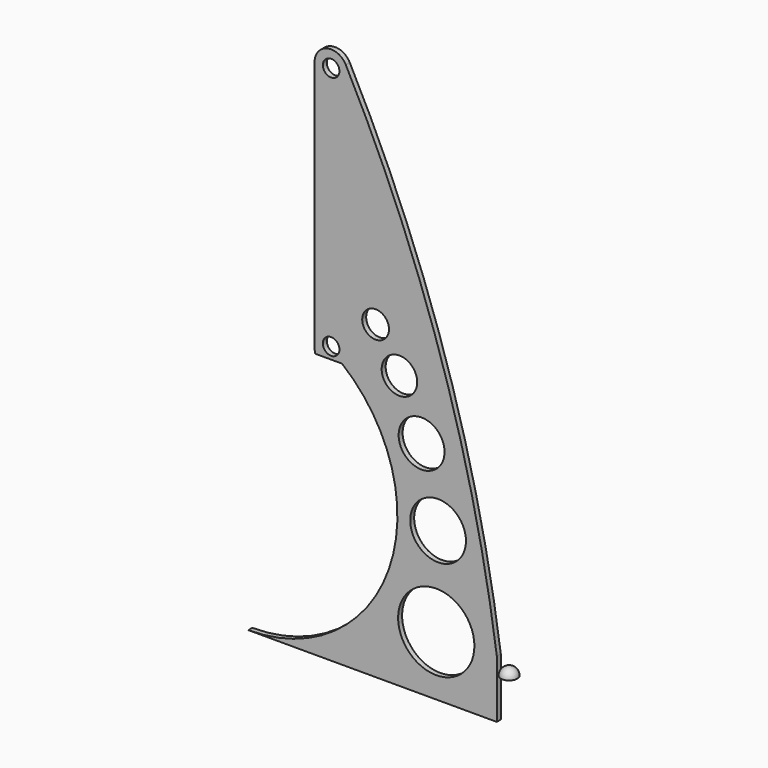
from build123d import *

# Parameters (mm, degrees)
F0_W     = 150
F0_H     = 25
F0_H_2   = 10
F0_R     = 5
F1_DEPTH = 3
F3_DEPTH = 25
F5_DEPTH = 25
F8_R     = 10.7211625117
F8_R_2   = 13.8464579222
F8_R_3   = 8.0798767628
F8_R_4   = 16.8242578826
F8_R_5   = 23.016028867
F9_DEPTH = 25


with BuildPart() as f1:
    # F0 (on Front) → F1 (new body)
    with BuildSketch(Plane.XZ):
        with BuildLine():
            Line((-150, 10), (0, 10))
            ThreePointArc((0, 10), (-33.2661460942, 156.2032895521), (-91.1419153466, 294.5233303461))
            ThreePointArc((-91.1419153466, 294.5233303461), (-90.2896743995, 292.2722920615), (-90, 289.88282))
            ThreePointArc((-90, 289.88282), (-100, 279.88282), (-110, 289.88282))
            Line((-110, 289.88282), (-110, 142))
            ThreePointArc((-110, 142), (-107.4839490045, 110.5993630638), (-100, 80))
            ThreePointArc((-100, 80), (-107.2195262824, 32.2996616303), (-150, 10))
        make_face()
        with BuildLine():
            ThreePointArc((-90, 142), (-100, 132), (-110, 142))
            ThreePointArc((-110, 142), (-100, 152), (-90, 142))
        make_face(mode=Mode.SUBTRACT)
        with Locations((-75, -12.5)):
            Rectangle(F0_W, F0_H)
        with Locations((-75, 5)):
            Rectangle(F0_W, F0_H_2)
        with BuildLine():
            ThreePointArc((-90, 142), (-100, 152), (-110, 142))
            ThreePointArc((-110, 142), (-100, 132), (-90, 142))
        make_face()
        with Locations((-100, 142)):
            Circle(F0_R, mode=Mode.SUBTRACT)
        with BuildLine():
            ThreePointArc((-90, 289.88282), (-90.2896743995, 292.2722920615), (-91.1419153466, 294.5233303461))
            ThreePointArc((-91.1419153466, 294.5233303461), (-102.3894720615, 299.5931456005), (-110, 289.88282))
            ThreePointArc((-110, 289.88282), (-100, 279.88282), (-90, 289.88282))
        make_face()
        with Locations((-100, 289.88282)):
            Circle(F0_R, mode=Mode.SUBTRACT)
    extrude(amount=F1_DEPTH)

    # F2 (on face) → F3 (cut)
    with BuildSketch(Plane.XZ.offset(3)):
        with BuildLine():
            ThreePointArc((-79.2831779252, 52.1890875227), (-102.1084716389, 94.5407460068), (-110, 142))
            ThreePointArc((-110, 142), (-107.4839490045, 110.5993630638), (-100, 80))
            ThreePointArc((-100, 80), (-107.2195262824, 32.2996616303), (-150, 10))
            Line((-150, 10), (-150, -25))
            ThreePointArc((-150, -25), (-97.6573210541, -1.9656019834), (-79.2831779252, 52.1890875227))
        make_face()
    extrude(amount=-F3_DEPTH, mode=Mode.SUBTRACT)

    # F4 (on face) → F5 (cut)
    with BuildSketch(Plane.XZ.offset(3)):
        with BuildLine():
            Line((-93.4314575051, 135), (-109.8328454789, 135))
            ThreePointArc((-109.8328454789, 135), (-100.9359591666, 91.2416633391), (-79.2831779252, 52.1890875227))
            ThreePointArc((-79.2831779252, 52.1890875227), (-97.6573210541, -1.9656019834), (-150, -25))
            ThreePointArc((-150, -25), (-65.1471862576, 35), (-93.4314575051, 135))
        make_face()
    extrude(amount=-F5_DEPTH, mode=Mode.SUBTRACT)

    # F8 (on face) → F9 (cut)
    with BuildSketch(Plane.XZ.offset(3)):
        with Locations((-58.7824434042, 139.864102006)):
            Circle(F8_R)
        with Locations((-45.4229526222, 108.1602498889)):
            Circle(F8_R_2)
        with Locations((-73.1631368399, 162.4263375998)):
            Circle(F8_R_3)
        with Locations((-35.4531854391, 65.090842545)):
            Circle(F8_R_4)
        with Locations((-36.5515090525, 10.9512181953)):
            Circle(F8_R_5)
    extrude(amount=-F9_DEPTH, mode=Mode.SUBTRACT)


with BuildPart() as f7:
    # F6 (on Front) → F7 (revolve)
    with BuildSketch(Plane.XZ):
        with BuildLine():
            ThreePointArc((5, 5), (1.4644660941, 3.5355339059), (0, 0))
            Line((0, 0), (5, 0))
            Line((5, 0), (5, 5))
        make_face()
    revolve(axis=Axis((5, 0, 5.9799733572), (0, 0, 1)))


solid = Compound([f1.part, f7.part])
